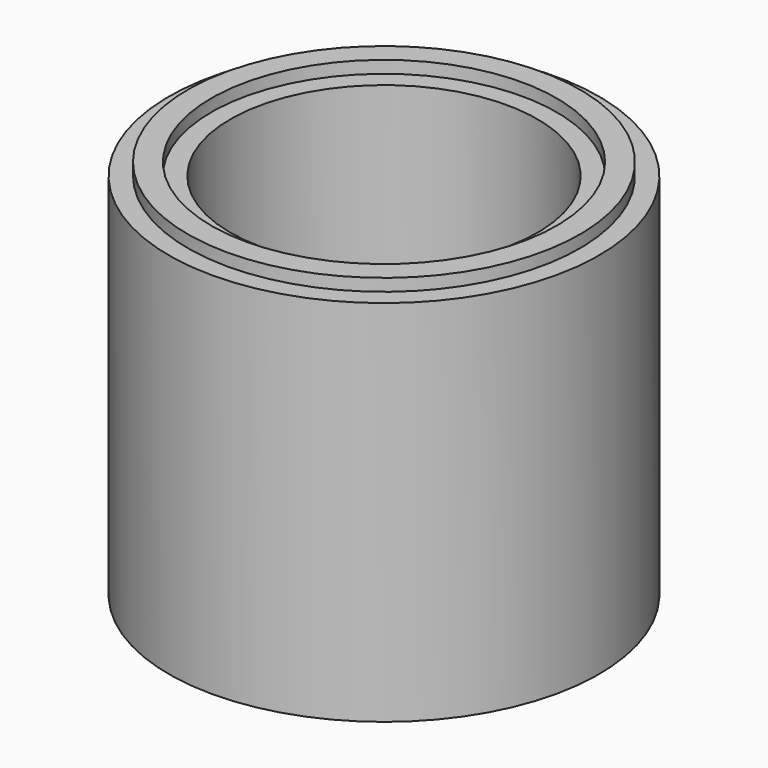
from build123d import *

# Parameters (mm, degrees)
F0_W = 1.9
F0_H = 1
F3_D = 4


with BuildPart() as f1:
    # F0 (on Right) → F1 (revolve)
    with BuildSketch(Plane.YZ):
        Polygon((-17.5, 0), (0, 0), (0, 4), (-12.5, 4), (-12.5, 30), (-14.05, 30), (-15.95, 30), (-17.5, 30), align=None)
        with Locations((-15, 30.5)):
            Rectangle(F0_W, F0_H)
    revolve(axis=Axis((0, 0, 29.047128), (0, 0, 1)))

    # F3 (through all)
    with Locations(Plane(origin=(0, 0, 0), x_dir=(1, 0, 0), z_dir=(0, 0, -1))):
        with Locations((8, 0), (0, 8), (0, -8), (-8, 0)):
            Hole(F3_D / 2)


solid = f1.part
